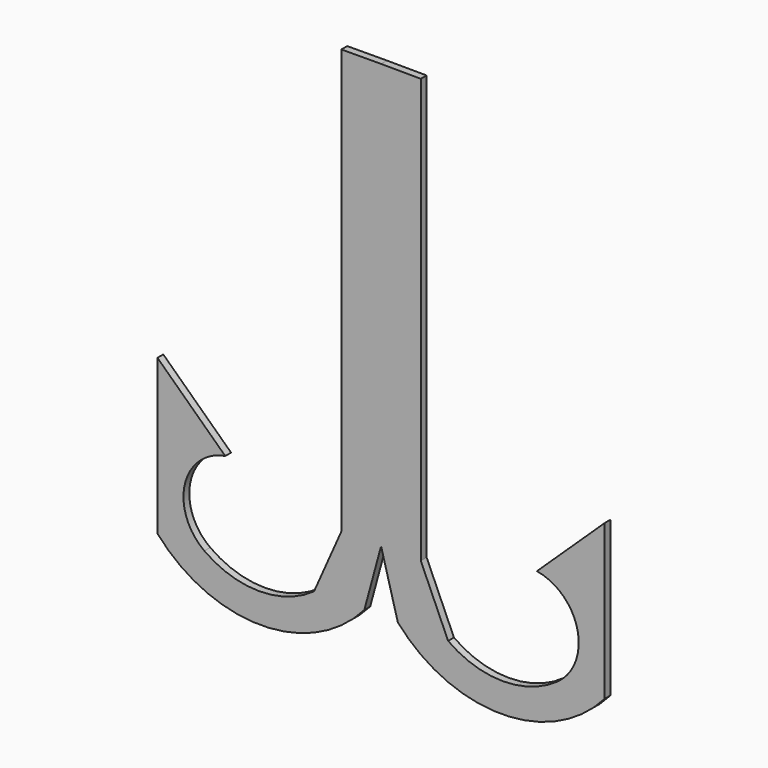
from build123d import *

# Parameters (mm, degrees)
F1_DEPTH = 1.27


with BuildPart() as f1:
    # F0 (on Front) → F1 (new body)
    with BuildSketch(Plane.XZ):
        with BuildLine():
            Line((-2.910425, -10.716616), (0, 0))
            Line((0, 0), (0, 73.787502))
            Line((0, 73.787502), (-6.902514, 73.753235))
            Line((-6.902514, 73.753235), (-6.902514, 0))
            Line((-6.902514, 0), (-11.651456, -10.716616))
            ThreePointArc((-11.651456, -10.716616), (-21.18223, -13.785884), (-30.713003, -10.716616))
            ThreePointArc((-30.713003, -10.716616), (-34.127713, -1.660027), (-27.08658, 4.981095))
            Line((-27.08658, 4.981095), (-38.872454, 16.179355))
            Line((-38.872454, 16.179355), (-38.872454, -10.716616))
            ThreePointArc((-38.872454, -10.716616), (-20.89144, -18.888028), (-2.910425, -10.716616))
        make_face()
        with BuildLine():
            Line((0, 73.787502), (0, 0))
            Line((0, 0), (2.910425, -10.716616))
            ThreePointArc((2.910425, -10.716616), (20.89144, -18.888028), (38.872454, -10.716616))
            Line((38.872454, -10.716616), (38.872454, 16.179355))
            Line((38.872454, 16.179355), (27.08658, 4.981095))
            ThreePointArc((27.08658, 4.981095), (34.127713, -1.660027), (30.713003, -10.716616))
            ThreePointArc((30.713003, -10.716616), (21.18223, -13.785884), (11.651456, -10.716616))
            Line((11.651456, -10.716616), (6.902514, 0))
            Line((6.902514, 0), (6.902514, 73.753235))
            Line((6.902514, 73.753235), (0, 73.787502))
        make_face()
    extrude(amount=F1_DEPTH)


solid = f1.part
